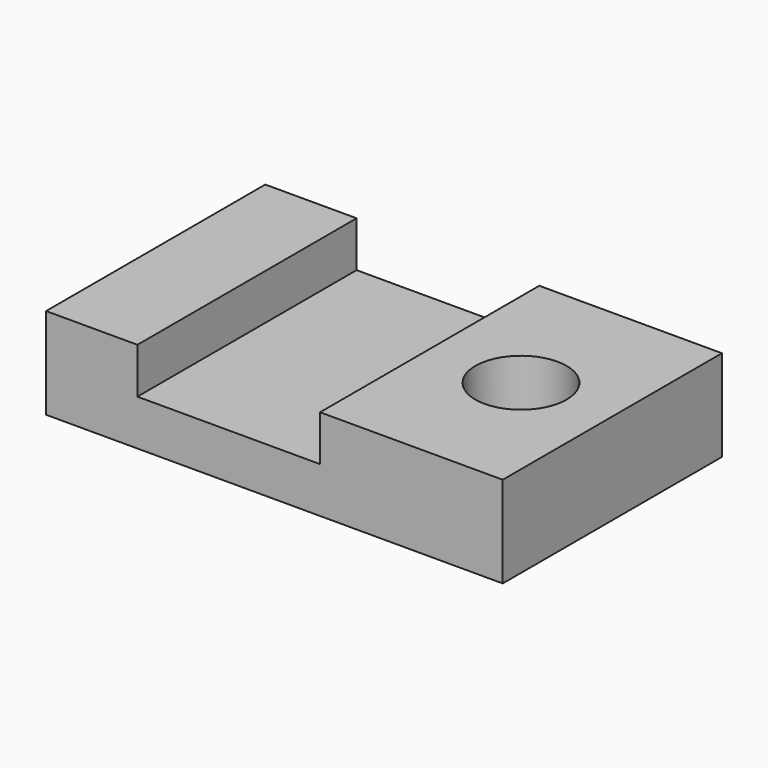
from build123d import *

# Parameters (mm, degrees)
F1_DEPTH = 38.1
F2_R     = 12.7
F3_DEPTH = 25.4


with BuildPart() as f1:
    # F0 (on Front) → F1 (new body, symmetric)
    with BuildSketch(Plane.XZ):
        Polygon((-127, 0), (0, 0), (0, 25.4), (-50.8, 25.4), (-50.8, 12.7), (-101.6, 12.7), (-101.6, 25.4), (-127, 25.4), align=None)
    extrude(amount=F1_DEPTH, both=True)

    # F2 (on face) → F3 (cut)
    with BuildSketch(Plane.XY.offset(25.4)):
        with Locations((-25.4, 0)):
            Circle(F2_R)
    extrude(amount=-F3_DEPTH, mode=Mode.SUBTRACT)


solid = f1.part
